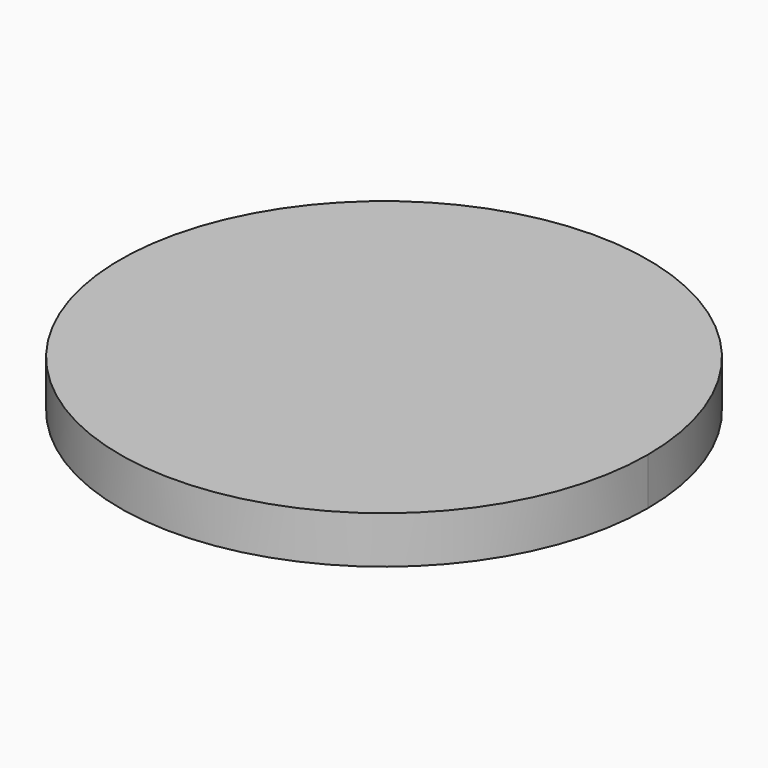
from build123d import *

# Parameters (mm, degrees)
F1_DEPTH = 2.5


with BuildPart() as f1:
    # F0 (on Top) → F1 (new body)
    with BuildSketch(Plane.XY):
        with BuildLine():
            ThreePointArc((7, 12.124356), (-12.124356, -7), (14, 0))
            Line((14, 0), (0, 0))
            Line((0, 0), (7, 12.124356))
        make_face()
        with BuildLine():
            Line((0, 0), (14, 0))
            ThreePointArc((14, 0), (12.124356, 7), (7, 12.124356))
            Line((7, 12.124356), (0, 0))
        make_face()
    extrude(amount=F1_DEPTH)


solid = f1.part
